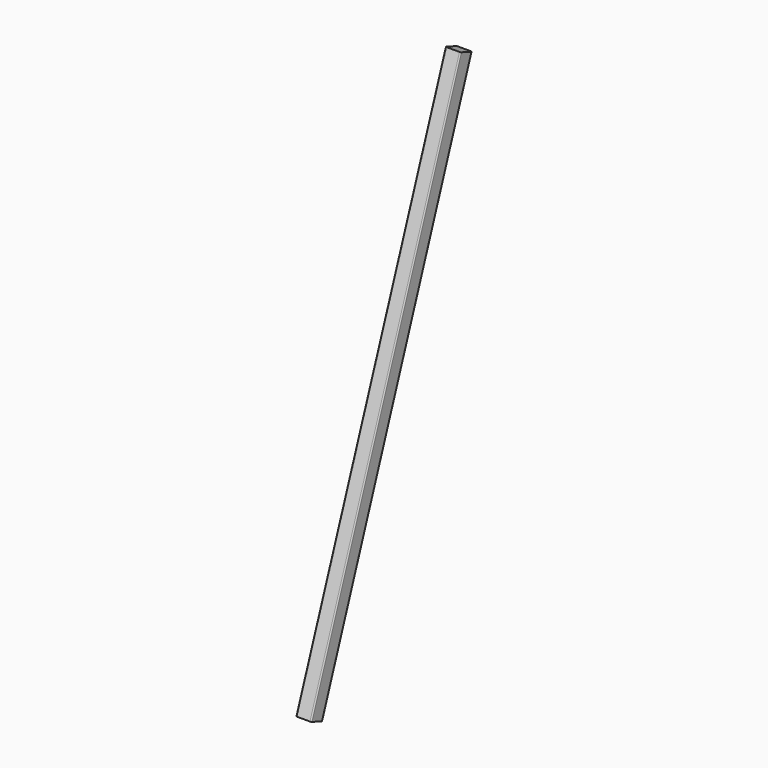
from build123d import *

# Parameters (mm, degrees)
F1_DEPTH = 2400
F2_ANGLE = -110


with BuildPart() as f1:
    # F0 (on Front) → F1 (new body)
    with BuildSketch(Plane.XZ):
        with BuildLine():
            Line((28.5, 33.5), (-28.5, 33.5))
            ThreePointArc((-28.5, 33.5), (-32.035534, 32.035534), (-33.5, 28.5))
            Line((-33.5, 28.5), (-33.5, -28.5))
            ThreePointArc((-33.5, -28.5), (-32.035534, -32.035534), (-28.5, -33.5))
            Line((-28.5, -33.5), (28.5, -33.5))
            ThreePointArc((28.5, -33.5), (32.035534, -32.035534), (33.5, -28.5))
            Line((33.5, -28.5), (33.5, 28.5))
            ThreePointArc((33.5, 28.5), (32.035534, 32.035534), (28.5, 33.5))
        make_face()
    extrude(amount=F1_DEPTH)


with BuildPart() as f1_1:
    # F2: moved
    add(f1.part.rotate(Axis((0, 0, 33.5), (1, 0, 0)), F2_ANGLE))


with BuildPart() as f1_2:
    # F3: moved
    add(f1_1.part.moved(Location((0, -320, 0))))


solid = f1_2.part
